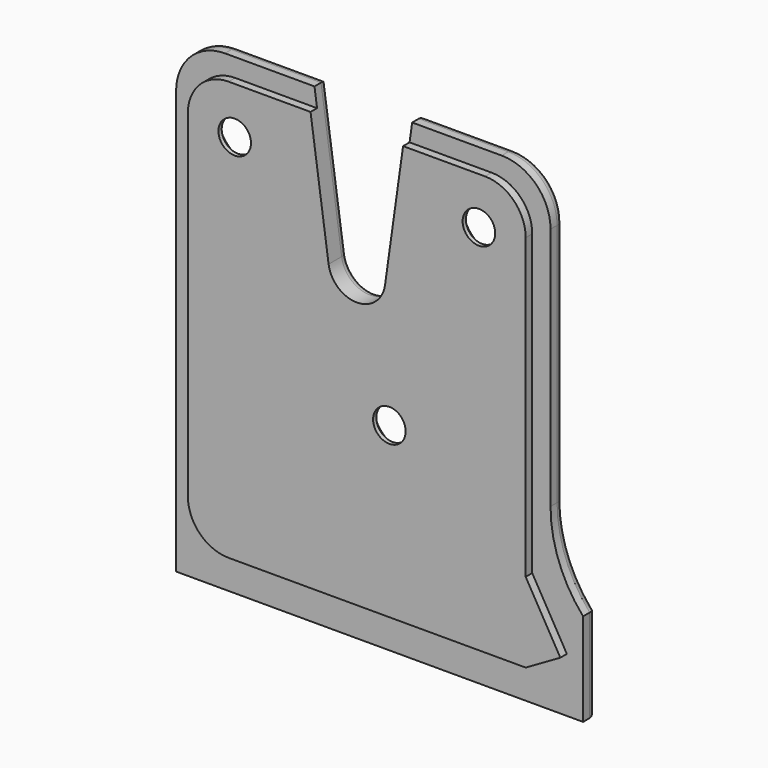
from build123d import *

# Parameters (mm, degrees)
PAD008_DEPTH        = 2
PAD009_DEPTH        = 1
POCKET009_DEPTH     = 3.001
HOLE006_D           = 4
HOLE006_DEPTH       = 25
HOLE006_CSINK_D     = 9
HOLE006_CSINK_ANGLE = 90
FILLET007_R         = 1


with BuildPart() as part:
    # Sketch025 → Pad008 (new body)
    with BuildSketch(Plane.XZ):
        with BuildLine():
            Line((17, 28), (-17, 28))
            ThreePointArc((-17, 28), (-21.242641, 26.242641), (-23, 22))
            Line((-23, 22), (-23, -30))
            Line((-23, -30), (27, -30))
            Line((27, -30), (27, -18.583005))
            ThreePointArc((23, -8), (24.03337, -13.656854), (27, -18.583005))
            Line((23, 22), (23, -8))
            ThreePointArc((23, 22), (21.242641, 26.242641), (17, 28))
        make_face()
    extrude(amount=-PAD008_DEPTH)

    # Sketch026 (on Face9 of Pad008) → Pad009 (join)
    with BuildSketch(Plane.XZ):
        with BuildLine():
            Line((-20.75, -20.75), (-20.75, 20.75))
            ThreePointArc((-15.75, 25.75), (-19.285534, 24.285534), (-20.75, 20.75))
            Line((-15.75, 25.75), (15.75, 25.75))
            ThreePointArc((20.75, 20.75), (19.285534, 24.285534), (15.75, 25.75))
            Line((20.75, 20.75), (20.75, -15.935045))
            Line((20.75, -15.935045), (25, -23.296261))
            Line((25, -23.296261), (20.75, -25.75))
            Line((20.75, -25.75), (-15.75, -25.75))
            ThreePointArc((-20.75, -20.75), (-19.285534, -24.285534), (-15.75, -25.75))
        make_face()
    extrude(amount=PAD009_DEPTH)

    # Sketch027 (on Face5 of Pad009) → Pocket009 (cut, through all)
    with BuildSketch(Plane(origin=(0, 2, 0), x_dir=(1, 0, 0), z_dir=(0, 1, 0))):
        with BuildLine():
            Line((-6, -28), (6, -28))
            Line((6, -28), (3.46582, -10))
            ThreePointArc((3.46582, -10), (0, -6.987945), (-3.46582, -10))
            Line((-6, -28), (-3.46582, -10))
        make_face()
    extrude(amount=-POCKET009_DEPTH, mode=Mode.SUBTRACT)

    # Hole006
    with Locations(Plane(origin=(0, 2, 0), x_dir=(1, 0, 0), z_dir=(0, 1, 0))):
        with Locations((-15, -20), (15, -20), (4, 5)):
            CounterSinkHole(HOLE006_D / 2, HOLE006_CSINK_D / 2, depth=HOLE006_DEPTH, counter_sink_angle=HOLE006_CSINK_ANGLE)

    # Fillet007
    fillet007_edges = [part.edges().sort_by_distance(p)[0] for p in [
        (23, 2, 7),
        (24.03337, 2, -13.656854),
        (27, 2, -24.291503),
        (2, 2, -30),
        (-23, 2, -4),
        (-21.242641, 2, 26.242641),
        (-11.5, 2, 28),
        (-4.73291, 2, 19),
        (0, 2, 6.987945),
        (4.73291, 2, 19),
        (11.5, 2, 28),
        (21.242641, 2, 26.242641),
    ]]
    fillet(fillet007_edges, radius=FILLET007_R)


solid = part.part
